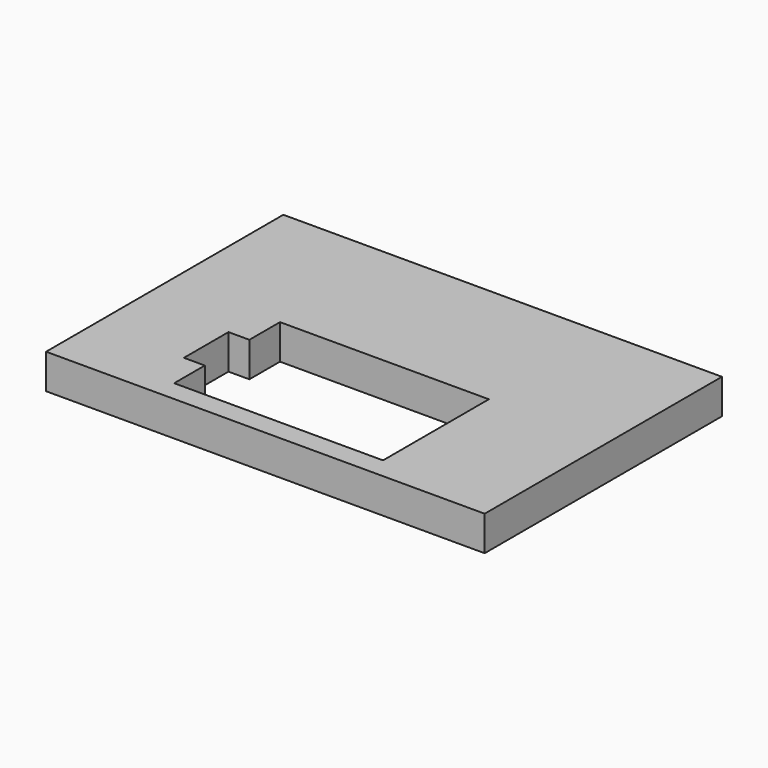
from build123d import *

# Parameters (mm, degrees)
F0_W     = 315
F0_H     = 213
F1_DEPTH = 25
F2_W     = 15
F2_H     = 40
F3_DEPTH = 25


with BuildPart() as f1:
    # F0 (on Top) → F1 (new body)
    with BuildSketch(Plane.XY):
        with Locations((3.552631, 27.873951)):
            Rectangle(F0_W, F0_H)
    extrude(amount=F1_DEPTH)

    # F2 (on face) → F3 (cut)
    with BuildSketch(Plane.XY.offset(25)):
        Polygon((76.052631, 31.373951), (-73.947369, 31.373951), (-73.947369, 3.873951), (-73.947369, -36.126049), (-73.947369, -63.626049), (76.052631, -63.626049), align=None)
        with Locations((-81.447369, -16.126049)):
            Rectangle(F2_W, F2_H)
    extrude(amount=-F3_DEPTH, mode=Mode.SUBTRACT)


solid = f1.part
